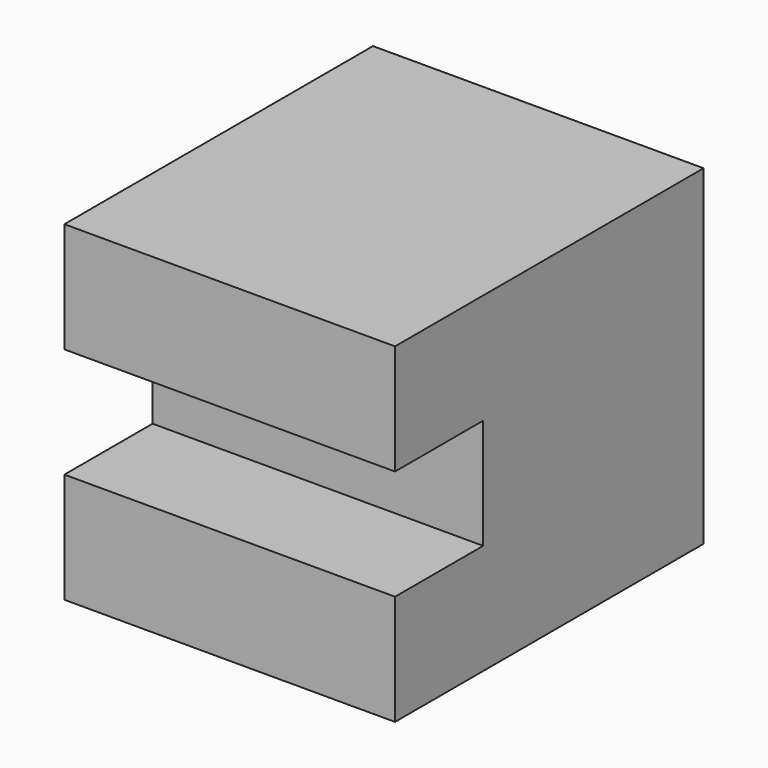
from build123d import *

# Parameters (mm, degrees)
F0_W     = 76.2
F0_H     = 63.5
F1_DEPTH = 76.2
F2_W     = 76.2
F2_H     = 25.4
F3_DEPTH = 25.4


with BuildPart() as f1:
    # F0 (on Top) → F1 (new body)
    with BuildSketch(Plane.XY):
        with Locations((3.147066, -3.576429)):
            Rectangle(F0_W, F0_H)
    extrude(amount=F1_DEPTH)

    # F2 (on face) → F3 (join)
    with BuildSketch(Plane.XZ.offset(35.326429)):
        with Locations((3.147066, 63.5)):
            Rectangle(F2_W, F2_H)
        with Locations((3.147066, 12.7)):
            Rectangle(F2_W, F2_H)
    extrude(amount=F3_DEPTH)


solid = f1.part
